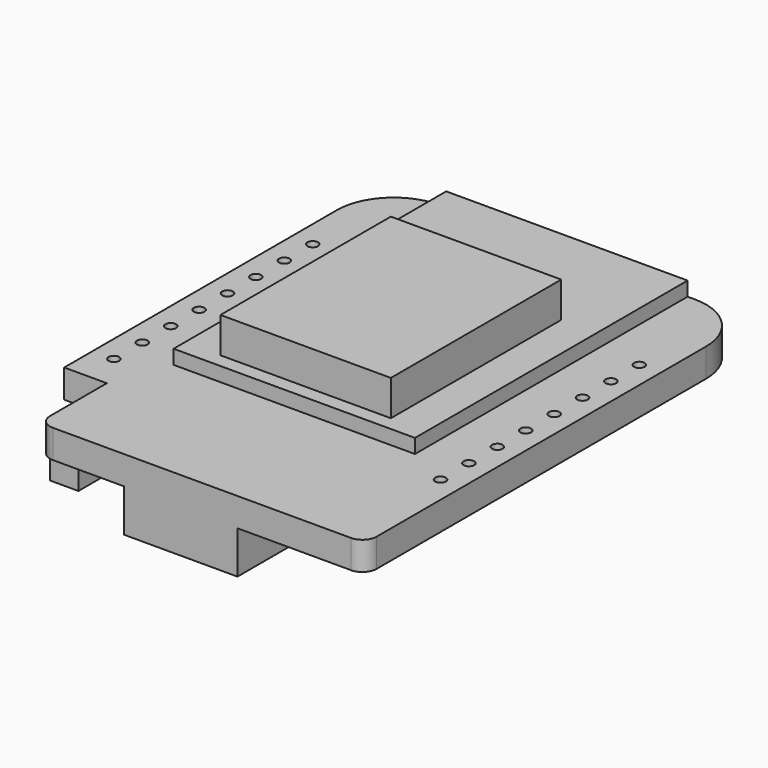
from build123d import *

# Parameters (mm, degrees)
F1_DEPTH  = 2
F2_W      = 17
F2_H      = 24
F3_DEPTH  = 1
F4_W      = 12
F4_H      = 15
F5_DEPTH  = 2.5
F6_W      = 8
F6_H      = 6
F7_DEPTH  = 3
F8_W      = 2
F8_H      = 4.5
F9_DEPTH  = 2
F10_W     = 2
F10_H     = 1
F11_DEPTH = 1
F12_W     = 10.5
F12_H     = 4
F13_DEPTH = 1.5
F14_R     = 0.375
F15_DEPTH = 25
F16_R     = 4
F17_R     = 1


with BuildPart() as f1:
    # F0 (on Top) → F1 (new body)
    with BuildSketch(Plane.XY):
        Polygon((13, 17), (-13, 17), (-13, -11), (-10, -11), (-10, -17), (13, -17), align=None)
    extrude(amount=F1_DEPTH)

    # F2 (on face) → F3 (join)
    with BuildSketch(Plane.XY.offset(2)):
        with Locations((0, 5)):
            Rectangle(F2_W, F2_H)
    extrude(amount=F3_DEPTH)

    # F4 (on face) → F5 (join)
    with BuildSketch(Plane.XY.offset(3)):
        with Locations((0, 1.5)):
            Rectangle(F4_W, F4_H)
    extrude(amount=F5_DEPTH)

    # F6 (on face) → F7 (join)
    with BuildSketch(Plane(origin=(0, 0, 0), x_dir=(1, 0, 0), z_dir=(0, 0, -1))):
        with Locations((0, 14)):
            Rectangle(F6_W, F6_H)
    extrude(amount=F7_DEPTH)

    # F8 (on face) → F9 (join)
    with BuildSketch(Plane(origin=(0, 0, 0), x_dir=(1, 0, 0), z_dir=(0, 0, -1))):
        with Locations((-9, 13.75)):
            Rectangle(F8_W, F8_H)
    extrude(amount=F9_DEPTH)

    # F10 (on face) → F11 (join)
    with BuildSketch(Plane(origin=(-10, 0, 0), x_dir=(0, -1, 0), z_dir=(-1, 0, 0))):
        with Locations((13.75, -1)):
            Rectangle(F10_W, F10_H)
    extrude(amount=F11_DEPTH)

    # F12 (on face) → F13 (join)
    with BuildSketch(Plane(origin=(0, 0, 0), x_dir=(1, 0, 0), z_dir=(0, 0, -1))):
        with Locations((-0.75, 0.206931)):
            Rectangle(F12_W, F12_H)
    extrude(amount=F13_DEPTH)

    # F14 (on face) → F15 (cut)
    with BuildSketch(Plane(origin=(0, 0, 0), x_dir=(1, 0, 0), z_dir=(0, 0, -1))):
        with Locations((-11.5, -9)):
            Circle(F14_R)
        with Locations((-11.5, -6.5)):
            Circle(F14_R)
        with Locations((-11.5, -4)):
            Circle(F14_R)
        with Locations((-11.5, -1.5)):
            Circle(F14_R)
        with Locations((-11.5, 1)):
            Circle(F14_R)
        with Locations((-11.5, 3.5)):
            Circle(F14_R)
        with Locations((-11.5, 6)):
            Circle(F14_R)
        with Locations((-11.5, 8.5)):
            Circle(F14_R)
        with Locations((11.5, -9)):
            Circle(F14_R)
        with Locations((11.5, -6.5)):
            Circle(F14_R)
        with Locations((11.5, -4)):
            Circle(F14_R)
        with Locations((11.5, -1.5)):
            Circle(F14_R)
        with Locations((11.5, 1)):
            Circle(F14_R)
        with Locations((11.5, 3.5)):
            Circle(F14_R)
        with Locations((11.5, 6)):
            Circle(F14_R)
        with Locations((11.5, 8.5)):
            Circle(F14_R)
    extrude(amount=-F15_DEPTH, mode=Mode.SUBTRACT)

    # F16
    f16_edges = [f1.edges().sort_by_distance(p)[0] for p in [
        (-13, 17, 1),
        (13, 17, 1),
    ]]
    fillet(f16_edges, radius=F16_R)

    # F17
    f17_edges = [f1.edges().sort_by_distance(p)[0] for p in [
        (-10, -17, 1),
        (13, -17, 1),
    ]]
    fillet(f17_edges, radius=F17_R)


solid = f1.part
